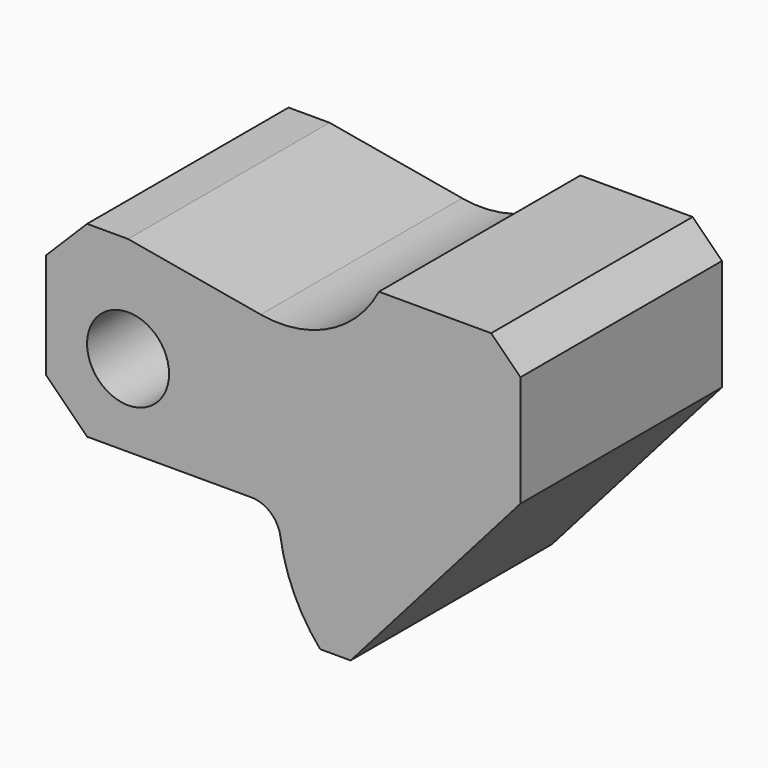
from build123d import *

# Parameters (mm, degrees)
F0_R     = 7
F1_DEPTH = 43


with BuildPart() as f1:
    # F0 (on Front) → F1 (new body)
    with BuildSketch(Plane.XZ):
        with BuildLine():
            Line((0, 18), (0, 0))
            Line((0, 0), (7, -7))
            Line((7, -7), (14, -7))
            Line((14, -7), (35.066626, -7))
            ThreePointArc((35.066626, -7), (38.331862, -8.213414), (40.012265, -11.264706))
            ThreePointArc((40.012265, -11.264706), (42.349095, -19.115672), (46.788067, -26))
            Line((46.788067, -26), (52, -26))
            Line((52, -26), (81, 7))
            Line((81, 7), (81, 26))
            Line((81, 26), (76, 31))
            Line((76, 31), (56.832022, 31))
            ThreePointArc((56.832022, 31), (48.381545, 22.690776), (36.650578, 21.006092))
            Line((36.650578, 21.006092), (14, 25))
            Line((14, 25), (7, 25))
            Line((7, 25), (0, 18))
        make_face()
        with Locations((14, 7)):
            Circle(F0_R, mode=Mode.SUBTRACT)
    extrude(amount=F1_DEPTH)


solid = f1.part
